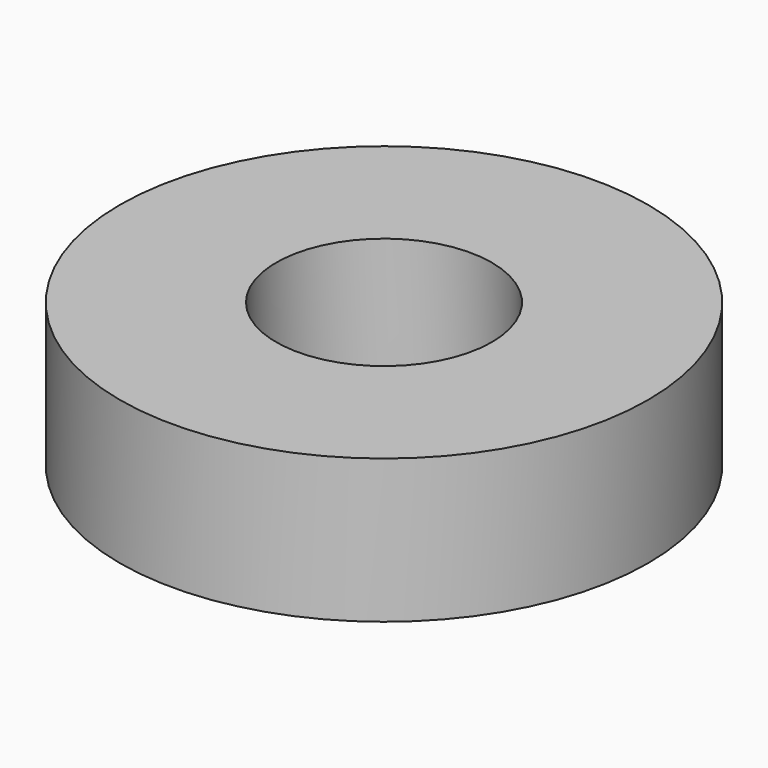
from build123d import *

# Parameters (mm, degrees)
F0_R        = 10.025
F0_R_2      = 4.5
F1_DEPTH    = 1.5
F0_R_3      = 11.025
F1_FACE_R   = 10.025
F1_FACE_R_2 = 4.5
F2_DEPTH    = 2
F3_DEPTH    = 2
F4_DEPTH    = 1.5
F5_DEPTH    = 1.5
F6_DEPTH    = 2
F7_DEPTH    = 1.5


with BuildPart() as f1:
    # F0 (on Top) → F1 (new body)
    with BuildSketch(Plane.XY):
        Circle(F0_R)
        Circle(F0_R_2, mode=Mode.SUBTRACT)
    extrude(amount=F1_DEPTH)

    # F0 (on Top) + F1_face (on face) → F2 (join)
    with BuildSketch(Plane.XY):
        Circle(F0_R_3)
        Circle(F0_R, mode=Mode.SUBTRACT)
    with BuildSketch(Plane(origin=(0, 0, 0), x_dir=(1, 0, 0), z_dir=(0, 0, -1))):
        Circle(F1_FACE_R)
        Circle(F1_FACE_R_2, mode=Mode.SUBTRACT)
    extrude(amount=F2_DEPTH, dir=(0, 0, 1))

    # F0 (on Top) → F3 (join)
    with BuildSketch(Plane.XY):
        Circle(F0_R_3)
        Circle(F0_R, mode=Mode.SUBTRACT)
    extrude(amount=-F3_DEPTH)

    # F4 (add): a face of the model
    f4_faces = [f1.faces().sort_by_distance(p)[0] for p in [
        (-9.7414501807, 0, 0),
    ]]
    extrude(f4_faces, amount=F4_DEPTH)

    # F5 (add): a face of the model
    f5_faces = [f1.faces().sort_by_distance(p)[0] for p in [
        (-9.7414501807, 0, -1.5),
    ]]
    extrude(f5_faces, amount=F5_DEPTH)

    # F6 (add): a face of the model
    f6_faces = [f1.faces().sort_by_distance(p)[0] for p in [
        (-10.7131659095, 0, -2),
    ]]
    extrude(f6_faces, amount=F6_DEPTH)

    # F0 (on Top) → F7 (join)
    with BuildSketch(Plane.XY):
        Circle(F0_R)
        Circle(F0_R_2, mode=Mode.SUBTRACT)
    extrude(amount=-F7_DEPTH)


solid = f1.part
